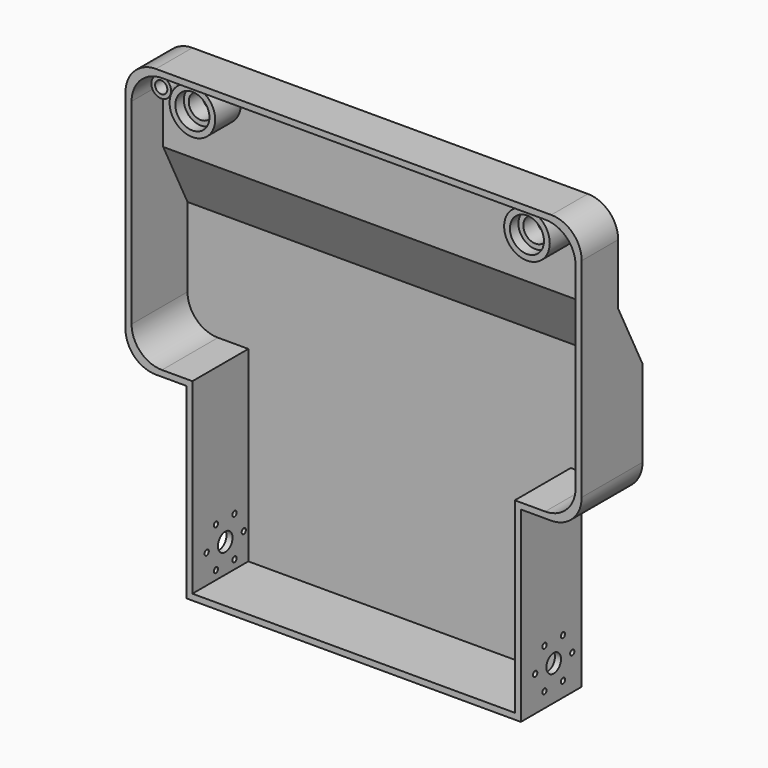
from build123d import *

# Parameters (mm, degrees)
F1_DEPTH  = 50
F3_DEPTH  = 333
F4_T      = -4
F5_R      = 6
F6_DEPTH  = 302.7
F7_R      = 20
F9_START  = 20
F8_R      = 15
F8_R_2    = 11.2
F9_DEPTH  = 25
F10_START = 27
F8_R_3    = 8
F10_DEPTH = 11
F11_DEPTH = 117.9
F12_DEPTH = 24
F14_START = 20
F13_R     = 6.5
F13_R_2   = 4
F14_DEPTH = 15


with BuildPart() as f1:
    # F0 (on Front) → F1 (new body)
    with BuildSketch(Plane.XZ):
        Polygon((300, 0), (0, 0), (0, -177), (40, -177), (40, -300), (260, -300), (260, -177), (300, -177), align=None)
    extrude(amount=F1_DEPTH)

    # F2 (on Right) → F3 (cut)
    with BuildSketch(Plane.YZ):
        Polygon((0, 0), (-20, 0), (-20, -60), (0, -100), align=None)
    extrude(amount=F3_DEPTH, mode=Mode.SUBTRACT)

    # F4
    f4_openings = [f1.faces().sort_by_distance(p)[0] for p in [
        (150, -50, -139.136228),
    ]]
    offset(amount=F4_T, openings=f4_openings, kind=Kind.INTERSECTION)

    # F5 (on Right) → F6 (cut)
    with BuildSketch(Plane.YZ):
        with BuildLine():
            ThreePointArc((-7.8504098361, -275.2528829848), (-7.7751231532, -276.125), (-7.75, -277))
            ThreePointArc((-7.75, -277), (-7.7751231532, -277.875), (-7.8504098361, -278.7471170152))
            ThreePointArc((-7.8504098361, -278.7471170152), (-6.5485877504, -278.2724419855), (-6, -277))
            ThreePointArc((-6, -277), (-6.5485877504, -275.7275580145), (-7.8504098361, -275.2528829848))
        make_face()
        with BuildLine():
            ThreePointArc((-16.9382526366, -263.0065115535), (-15.375, -263.7931125923), (-13.9121571995, -264.7536285687))
            ThreePointArc((-13.9121571995, -264.7536285687), (-13.6983254787, -264.2943735518), (-13.625, -263.7931125923))
            ThreePointArc((-13.625, -263.7931125923), (-14.9707674642, -262.0904393832), (-16.9382526366, -263.0065115535))
        make_face()
        with BuildLine():
            ThreePointArc((-7.8504098361, -278.7471170152), (-7.7751231532, -277.875), (-7.75, -277))
            ThreePointArc((-7.75, -277), (-7.7751231532, -276.125), (-7.8504098361, -275.2528829848))
            ThreePointArc((-7.8504098361, -275.2528829848), (-9.5, -277), (-7.8504098361, -278.7471170152))
        make_face()
        with BuildLine():
            ThreePointArc((-16.9382526366, -263.0065115535), (-16.25, -265.3086570489), (-13.9121571995, -264.7536285687))
            ThreePointArc((-13.9121571995, -264.7536285687), (-15.375, -263.7931125923), (-16.9382526366, -263.0065115535))
        make_face()
        with BuildLine():
            ThreePointArc((-32.0878428005, -264.7536285687), (-30.625, -263.7931125923), (-29.0617473634, -263.0065115535))
            ThreePointArc((-29.0617473634, -263.0065115535), (-31.5, -262.2775681357), (-32.0878428005, -264.7536285687))
        make_face()
        with BuildLine():
            ThreePointArc((-28.875, -263.7931125923), (-28.9223267909, -263.3888800565), (-29.0617473634, -263.0065115535))
            ThreePointArc((-29.0617473634, -263.0065115535), (-30.625, -263.7931125923), (-32.0878428005, -264.7536285687))
            ThreePointArc((-32.0878428005, -264.7536285687), (-30.1237390405, -265.4697871136), (-28.875, -263.7931125923))
        make_face()
        with BuildLine():
            ThreePointArc((-38.1495901639, -278.7471170152), (-38.25, -277), (-38.1495901639, -275.2528829848))
            ThreePointArc((-38.1495901639, -275.2528829848), (-40, -277), (-38.1495901639, -278.7471170152))
        make_face()
        with BuildLine():
            ThreePointArc((-36.5, -277), (-36.9775580145, -275.7985877504), (-38.1495901639, -275.2528829848))
            ThreePointArc((-38.1495901639, -275.2528829848), (-38.25, -277), (-38.1495901639, -278.7471170152))
            ThreePointArc((-38.1495901639, -278.7471170152), (-36.9775580145, -278.2014122496), (-36.5, -277))
        make_face()
        with BuildLine():
            ThreePointArc((-32.0878428005, -289.2463714313), (-31.5, -291.7224318643), (-29.0617473634, -290.9934884465))
            ThreePointArc((-29.0617473634, -290.9934884465), (-30.625, -290.2068874077), (-32.0878428005, -289.2463714313))
        make_face()
        with BuildLine():
            ThreePointArc((-32.0878428005, -289.2463714313), (-30.625, -290.2068874077), (-29.0617473634, -290.9934884465))
            ThreePointArc((-29.0617473634, -290.9934884465), (-28.9223267909, -290.6111199435), (-28.875, -290.2068874077))
            ThreePointArc((-28.875, -290.2068874077), (-30.1237390405, -288.5302128864), (-32.0878428005, -289.2463714313))
        make_face()
        with BuildLine():
            ThreePointArc((-13.625, -290.2068874077), (-13.6983254787, -289.7056264482), (-13.9121571995, -289.2463714313))
            ThreePointArc((-13.9121571995, -289.2463714313), (-15.375, -290.2068874077), (-16.9382526366, -290.9934884465))
            ThreePointArc((-16.9382526366, -290.9934884465), (-14.9707674642, -291.9095606168), (-13.625, -290.2068874077))
        make_face()
        with BuildLine():
            ThreePointArc((-16.9382526366, -290.9934884465), (-15.375, -290.2068874077), (-13.9121571995, -289.2463714313))
            ThreePointArc((-13.9121571995, -289.2463714313), (-16.25, -288.6913429511), (-16.9382526366, -290.9934884465))
        make_face()
        with Locations((-23, -277)):
            Circle(F5_R)
    extrude(amount=F6_DEPTH, mode=Mode.SUBTRACT)

    # F7
    f7_edges = [f1.edges().sort_by_distance(p)[0] for p in [
        (300, -25, -177),
        (296, -27, -173),
        (4, -27, -173),
        (0, -25, -177),
        (300, -35, 0),
        (296, -37, -4),
        (0, -35, 0),
        (4, -37, -4),
    ]]
    fillet(f7_edges, radius=F7_R)

    # F8 (on Front) → F9 (join)
    with BuildSketch(Plane.XZ.offset(F9_START)):
        with Locations((40, -20)):
            Circle(F8_R)
        with Locations((40, -20)):
            Circle(F8_R_2, mode=Mode.SUBTRACT)
        with Locations((260, -20)):
            Circle(F8_R)
        with Locations((260, -20)):
            Circle(F8_R_2, mode=Mode.SUBTRACT)
    extrude(amount=F9_DEPTH)

    # F8 (on Front) → F10 (join)
    with BuildSketch(Plane.XZ.offset(F10_START)):
        with Locations((40, -20)):
            Circle(F8_R_2)
        with Locations((40, -20)):
            Circle(F8_R_3, mode=Mode.SUBTRACT)
        with Locations((260, -20)):
            Circle(F8_R_2)
        with Locations((260, -20)):
            Circle(F8_R_3, mode=Mode.SUBTRACT)
    extrude(amount=F10_DEPTH)

    # F8 (on Front) → F11 (cut)
    with BuildSketch(Plane.XZ):
        with Locations((40, -20)):
            Circle(F8_R_3)
        with Locations((260, -20)):
            Circle(F8_R_3)
    extrude(amount=F11_DEPTH, mode=Mode.SUBTRACT)

    # F8 (on Front) → F12 (cut)
    with BuildSketch(Plane.XZ):
        with Locations((40, -20)):
            Circle(F8_R_2)
        with Locations((40, -20)):
            Circle(F8_R_3, mode=Mode.SUBTRACT)
        with Locations((260, -20)):
            Circle(F8_R_2)
        with Locations((260, -20)):
            Circle(F8_R_3, mode=Mode.SUBTRACT)
    extrude(amount=F12_DEPTH, mode=Mode.SUBTRACT)

    # F13 (on Front) → F14 (join)
    with BuildSketch(Plane.XZ.offset(F14_START)):
        with Locations((288.5, -19.5)):
            Circle(F13_R)
        with Locations((288.5, -19.5)):
            Circle(F13_R_2, mode=Mode.SUBTRACT)
        with Locations((11.5, -19.5)):
            Circle(F13_R)
        with Locations((11.5, -19.5)):
            Circle(F13_R_2, mode=Mode.SUBTRACT)
    extrude(amount=F14_DEPTH)


solid = f1.part
